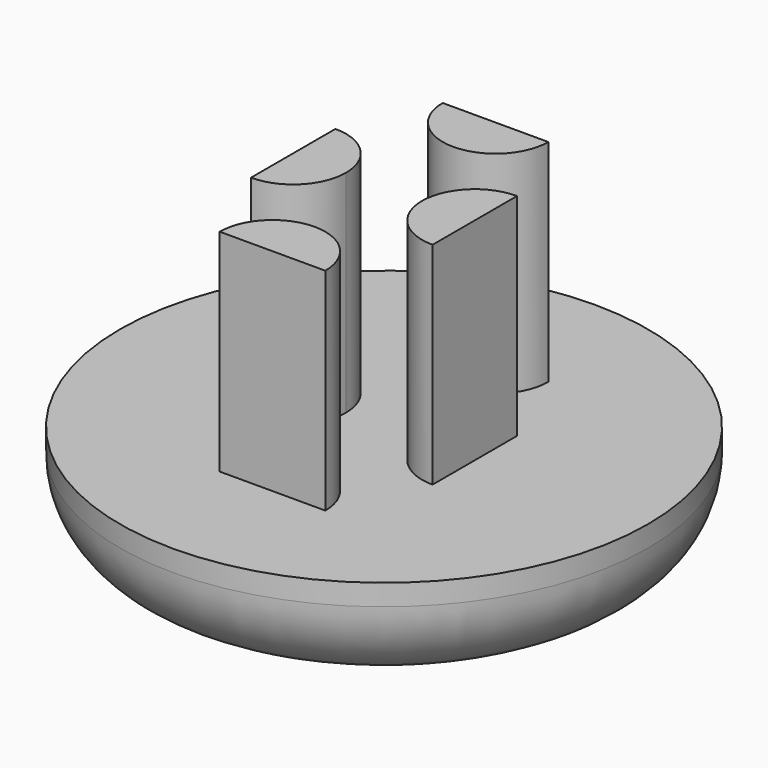
from build123d import *

# Parameters (mm, degrees)
F0_R     = 12.5
F1_DEPTH = 5
F2_R     = 4
F4_DEPTH = 10


with BuildPart() as f1:
    # F0 (on Top) → F1 (new body)
    with BuildSketch(Plane.XY):
        Circle(F0_R)
    extrude(amount=F1_DEPTH)

    # F2
    f2_edges = [f1.edges().sort_by_distance(p)[0] for p in [
        (-12.5, 0, 0),
    ]]
    fillet(f2_edges, radius=F2_R)

    # F3 (on face) → F4 (join)
    with BuildSketch(Plane.XY.offset(5)):
        with BuildLine():
            ThreePointArc((-1.8, 0), (-2.532233047, 1.767766953), (-4.3, 2.5))
            Line((-4.3, 2.5), (-4.3, -2.5))
            ThreePointArc((-4.3, -2.5), (-2.532233047, -1.767766953), (-1.8, 0))
        make_face()
        with BuildLine():
            ThreePointArc((-2.5, 6.6), (0, 4.1), (2.5, 6.6))
            Line((2.5, 6.6), (-2.5, 6.6))
        make_face()
        with BuildLine():
            Line((-2.5, -6.6), (2.5, -6.6))
            ThreePointArc((2.5, -6.6), (0, -4.1), (-2.5, -6.6))
        make_face()
        with BuildLine():
            Line((4.3, -2.5), (4.3, 2.5))
            ThreePointArc((4.3, 2.5), (1.8, 0), (4.3, -2.5))
        make_face()
    extrude(amount=F4_DEPTH)


solid = f1.part
